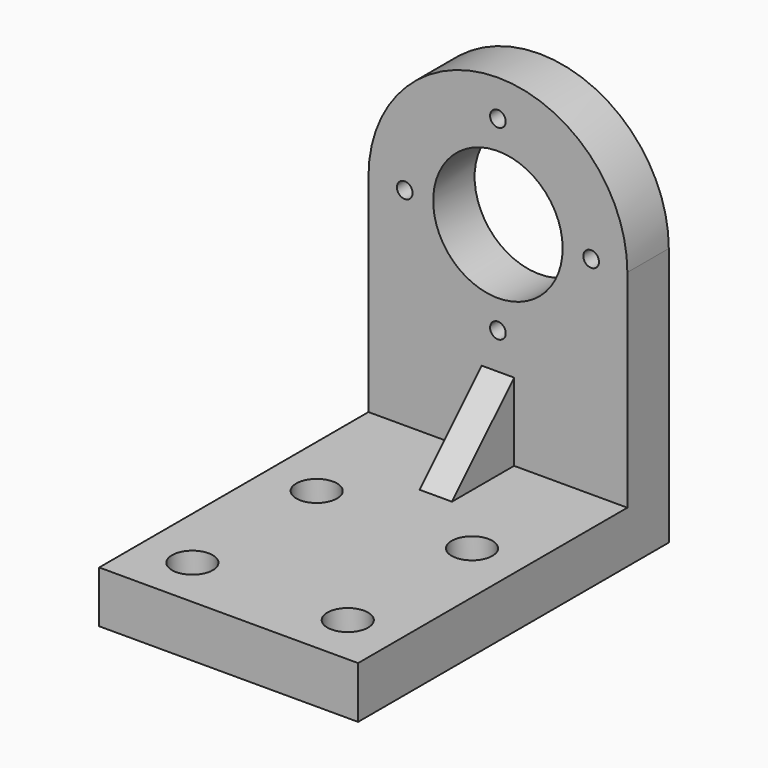
from build123d import *

# Parameters (mm, degrees)
F0_R           = 7
F0_R_2         = 50
F0_W           = 200
F0_H           = 40
F1_DEPTH       = 40
F2_D           = 12.1
F3_DEPTH       = 300
F5_D           = 17.5
F5_CBORE_D     = 31.5
F5_CBORE_DEPTH = 20
F7_DEPTH       = 12.5


with BuildPart() as f1:
    # F0 (on Front) → F1 (new body)
    with BuildSketch(Plane.XZ):
        with BuildLine():
            ThreePointArc((-100, 0), (0, -100), (100, 0))
            ThreePointArc((100, 0), (0, 100), (-100, 0))
        make_face()
        with Locations((0, -72)):
            Circle(F0_R, mode=Mode.SUBTRACT)
        with Locations((-72, 0)):
            Circle(F0_R, mode=Mode.SUBTRACT)
        Circle(F0_R_2, mode=Mode.SUBTRACT)
        with Locations((72, 0)):
            Circle(F0_R, mode=Mode.SUBTRACT)
        with Locations((0, 72)):
            Circle(F0_R, mode=Mode.SUBTRACT)
        with BuildLine():
            Line((100, -160), (100, 0))
            ThreePointArc((100, 0), (0, -100), (-100, 0))
            Line((-100, 0), (-100, -160))
            Line((-100, -160), (100, -160))
        make_face()
        with Locations((0, -180)):
            Rectangle(F0_W, F0_H)
        with Locations((0, 72)):
            Circle(F0_R)
        with Locations((72, 0)):
            Circle(F0_R)
        with Locations((0, -72)):
            Circle(F0_R)
        with Locations((-72, 0)):
            Circle(F0_R)
    extrude(amount=F1_DEPTH)

    # F2 (through all)
    with Locations(Plane(origin=(0, 0, 0), x_dir=(1, 0, 0), z_dir=(0, 1, 0))):
        with Locations((-72, 0), (0, 72), (72, 0), (0, -72)):
            Hole(F2_D / 2)

    # F0 (on Front) → F3 (join)
    with BuildSketch(Plane.XZ):
        with Locations((0, -180)):
            Rectangle(F0_W, F0_H)
    extrude(amount=F3_DEPTH)

    # F5 (through all)
    with Locations(Plane.XY.offset(-160)):
        with Locations((60, -260), (-60, -260), (60, -140), (-60, -140)):
            CounterBoreHole(F5_D / 2, F5_CBORE_D / 2, F5_CBORE_DEPTH)

    # F6 (on Right) → F7 (join, symmetric)
    with BuildSketch(Plane.YZ):
        Polygon((-40, -160), (-40, -100), (-100, -160), align=None)
    extrude(amount=F7_DEPTH, both=True)


solid = f1.part
